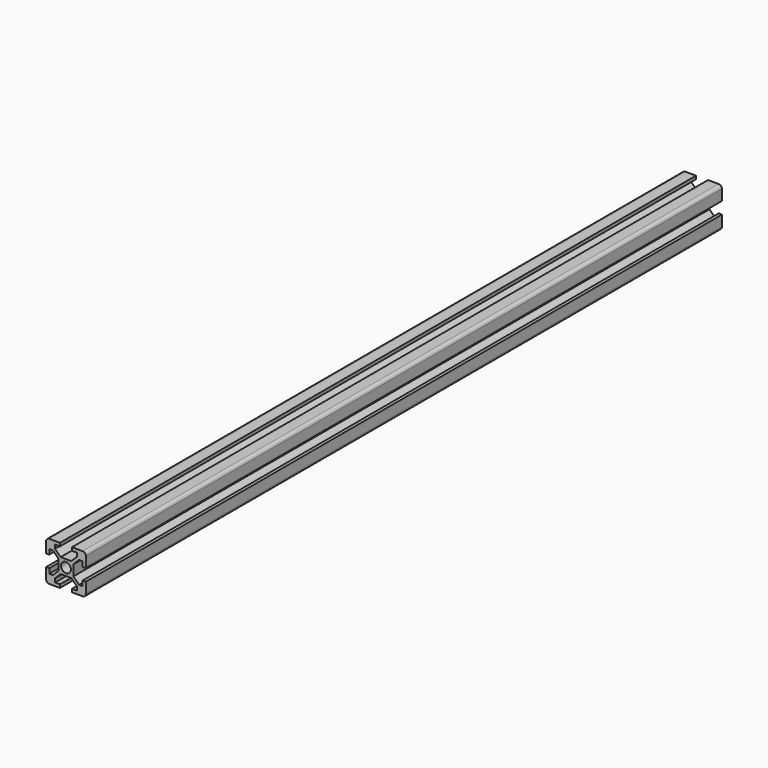
from build123d import *

# Parameters (mm, degrees)
F0_R     = 2.5
F1_DEPTH = 200


with BuildPart() as f1:
    # F0 (on Front) → F1 (new body, symmetric)
    with BuildSketch(Plane.XZ):
        with BuildLine():
            Line((2.68934, -3.75), (3.75, -3.75))
            Line((3.75, -3.75), (3.75, -2.68934))
            Line((3.75, -2.68934), (3.75, 2.68934))
            Line((3.75, 2.68934), (3.75, 3.75))
            Line((3.75, 3.75), (2.68934, 3.75))
            Line((2.68934, 3.75), (-2.68934, 3.75))
            Line((-2.68934, 3.75), (-5.5, 6.56066))
            Line((-5.5, 6.56066), (-5.5, 8.4))
            Line((-5.5, 8.4), (-3, 8.4))
            Line((-3, 8.4), (-3, 10))
            Line((-3, 10), (-8.4, 10))
            ThreePointArc((-8.4, 10), (-9.531371, 9.531371), (-10, 8.4))
            Line((-10, 8.4), (-10, 3))
            Line((-10, 3), (-8.4, 3))
            Line((-8.4, 3), (-8.4, 5.5))
            Line((-8.4, 5.5), (-6.56066, 5.5))
            Line((-6.56066, 5.5), (-3.75, 2.68934))
            Line((-3.75, 2.68934), (-3.75, -2.68934))
            Line((-3.75, -2.68934), (-3.75, -3.75))
            Line((-3.75, -3.75), (-2.68934, -3.75))
            Line((-2.68934, -3.75), (2.68934, -3.75))
        make_face()
        Circle(F0_R, mode=Mode.SUBTRACT)
        with BuildLine():
            Line((3.75, 3.75), (3.75, 2.68934))
            Line((3.75, 2.68934), (6.56066, 5.5))
            Line((6.56066, 5.5), (8.4, 5.5))
            Line((8.4, 5.5), (8.4, 3))
            Line((8.4, 3), (10, 3))
            Line((10, 3), (10, 8.4))
            ThreePointArc((10, 8.4), (9.531371, 9.531371), (8.4, 10))
            Line((8.4, 10), (3, 10))
            Line((3, 10), (3, 8.4))
            Line((3, 8.4), (5.5, 8.4))
            Line((5.5, 8.4), (5.5, 6.56066))
            Line((5.5, 6.56066), (2.68934, 3.75))
            Line((2.68934, 3.75), (3.75, 3.75))
        make_face()
        with BuildLine():
            Line((3.75, -2.68934), (3.75, -3.75))
            Line((3.75, -3.75), (2.68934, -3.75))
            Line((2.68934, -3.75), (5.5, -6.56066))
            Line((5.5, -6.56066), (5.5, -8.4))
            Line((5.5, -8.4), (3, -8.4))
            Line((3, -8.4), (3, -10))
            Line((3, -10), (8.4, -10))
            ThreePointArc((8.4, -10), (9.531371, -9.531371), (10, -8.4))
            Line((10, -8.4), (10, -3))
            Line((10, -3), (8.4, -3))
            Line((8.4, -3), (8.4, -5.5))
            Line((8.4, -5.5), (6.56066, -5.5))
            Line((6.56066, -5.5), (3.75, -2.68934))
        make_face()
        with BuildLine():
            Line((-5.5, -6.56066), (-2.68934, -3.75))
            Line((-2.68934, -3.75), (-3.75, -3.75))
            Line((-3.75, -3.75), (-3.75, -2.68934))
            Line((-3.75, -2.68934), (-6.56066, -5.5))
            Line((-6.56066, -5.5), (-8.4, -5.5))
            Line((-8.4, -5.5), (-8.4, -3))
            Line((-8.4, -3), (-10, -3))
            Line((-10, -3), (-10, -8.4))
            ThreePointArc((-10, -8.4), (-9.531371, -9.531371), (-8.4, -10))
            Line((-8.4, -10), (-3, -10))
            Line((-3, -10), (-3, -8.4))
            Line((-3, -8.4), (-5.5, -8.4))
            Line((-5.5, -8.4), (-5.5, -6.56066))
        make_face()
    extrude(amount=F1_DEPTH, both=True)


solid = f1.part
